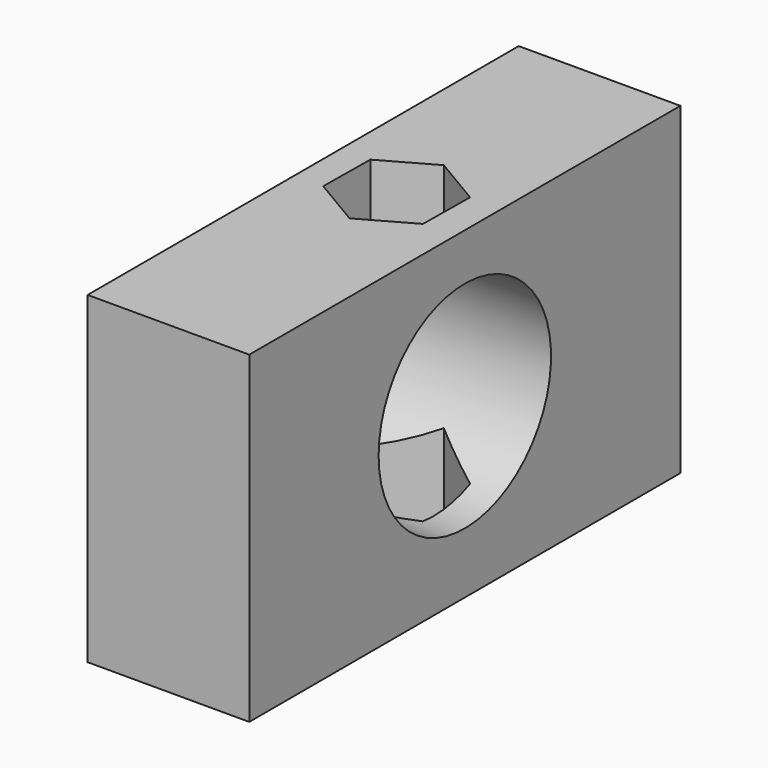
from build123d import *

# Parameters (mm, degrees)
F0_W     = 38.1
F0_H     = 76.2
F1_DEPTH = 127
F2_R     = 25.4
F3_DEPTH = 101.6
F5_DEPTH = 76.2


with BuildPart() as f1:
    # F0 (on Front) → F1 (new body)
    with BuildSketch(Plane.XZ):
        with Locations((-90.780935, -13.071662)):
            Rectangle(F0_W, F0_H)
    extrude(amount=F1_DEPTH)

    # F2 (on face) → F3 (cut)
    with BuildSketch(Plane(origin=(-109.830935, 0, 0), x_dir=(0, -1, 0), z_dir=(-1, 0, 0))):
        with Locations((63.500002, -11.443584)):
            Circle(F2_R)
    extrude(amount=-F3_DEPTH, mode=Mode.SUBTRACT)

    # F4 (on face) → F5 (cut, through all)
    with BuildSketch(Plane.XY.offset(25.028338)):
        Polygon((-90.949364, -45.673328), (-102.886237, -52.387816), (-103.039757, -66.082696), (-91.256403, -73.063088), (-79.319529, -66.3486), (-79.16601, -52.65372), align=None)
    extrude(amount=-F5_DEPTH, mode=Mode.SUBTRACT)


solid = f1.part
